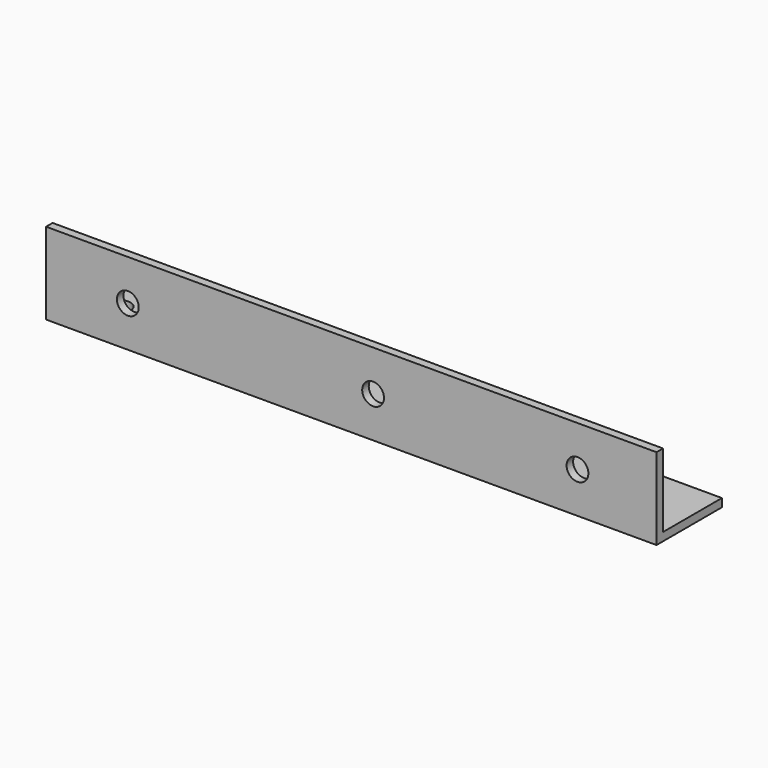
from build123d import *

# Parameters (mm, degrees)
F1_DEPTH = 224
F3_D     = 8
F5_D     = 8


with BuildPart() as f1:
    # F0 (on Right) → F1 (new body)
    with BuildSketch(Plane.YZ):
        Polygon((0, 30), (0, 0), (30, 0), (30, 3), (3, 3), (3, 30), align=None)
    extrude(amount=F1_DEPTH)

    # F3 (through all)
    with Locations(Plane(origin=(0, 0, 0), x_dir=(1, 0, 0), z_dir=(0, 0, -1))):
        with Locations((15, -15), (100, -15.3021634132), (209, -15.3983095661)):
            Hole(F3_D / 2)

    # F5 (through all)
    with Locations(Plane.XZ):
        with Locations((30, 15), (120, 15), (195, 15)):
            Hole(F5_D / 2)


solid = f1.part
